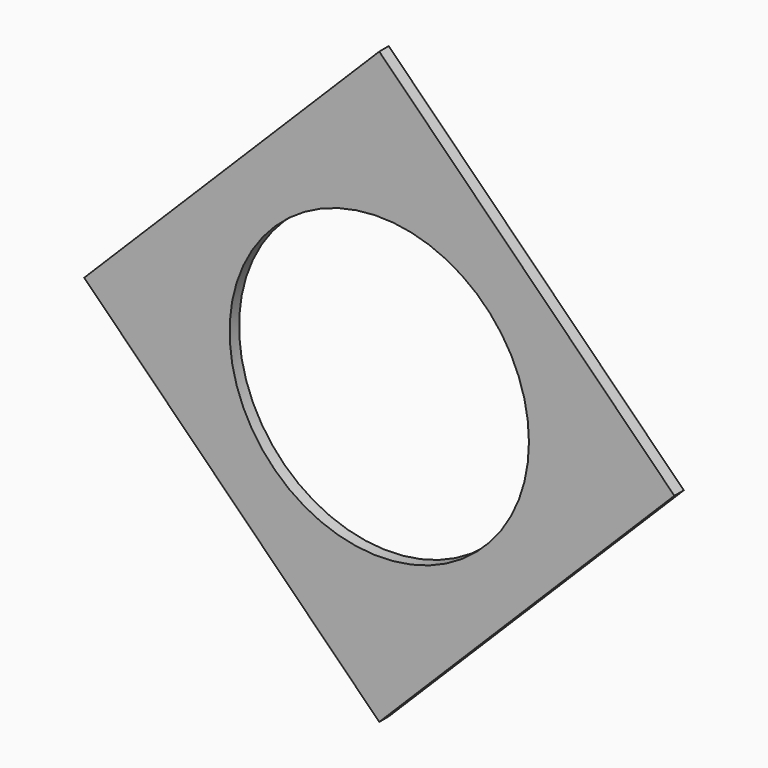
from build123d import *

# Parameters (mm, degrees)
F0_R     = 12.679986
F1_DEPTH = 1


with BuildPart() as f1:
    # F0 (on Front) → F1 (new body)
    with BuildSketch(Plane.XZ):
        Polygon((0, 25), (-25, 0), (0, -25), (25, 0), align=None)
        Circle(F0_R, mode=Mode.SUBTRACT)
    extrude(amount=F1_DEPTH)


solid = f1.part
